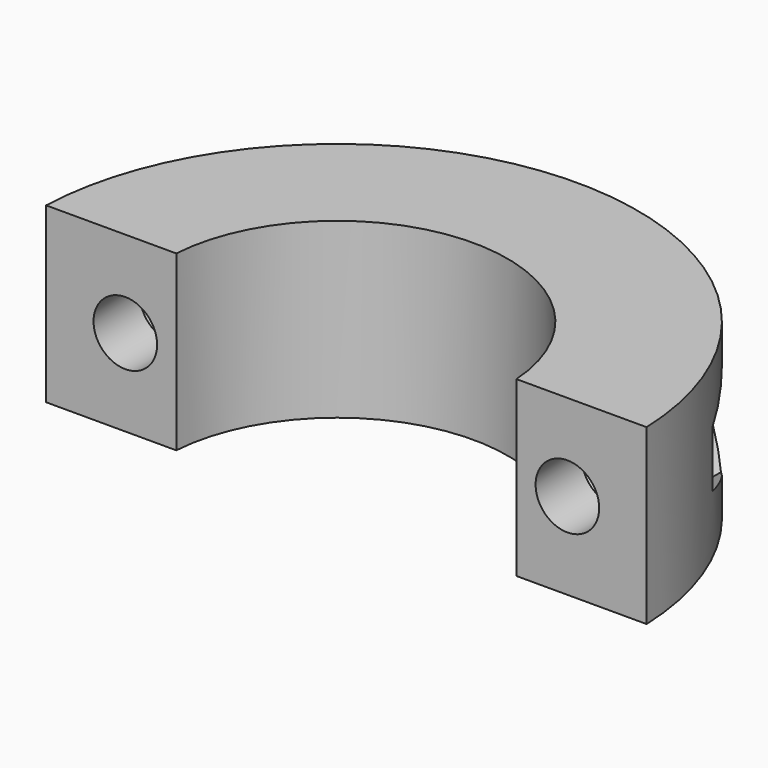
from build123d import *

# Parameters (mm, degrees)
PAD_DEPTH       = 15
SKETCH001_R     = 2.75
POCKET_DEPTH    = 25.001
SKETCH002_R     = 4.75
POCKET001_DEPTH = 20.001


with BuildPart() as part:
    # Sketch → Pad (new body)
    with BuildSketch(Plane.XY):
        with BuildLine():
            ThreePointArc((14.716063, 0), (0, 13.75), (-14.716063, 0))
            Line((-25.980762, 0), (-14.716063, 0))
            ThreePointArc((25.980762, 0), (0, 25), (-25.980762, 0))
            Line((14.716063, 0), (25.980762, 0))
        make_face()
    extrude(amount=PAD_DEPTH)

    # Sketch001 (on Face2 of Pad) → Pocket (cut, through all)
    with BuildSketch(Plane.XZ):
        with Locations((-19.125, 7.5)):
            Circle(SKETCH001_R)
        with Locations((19.125, 7.5)):
            Circle(SKETCH001_R)
    extrude(amount=-POCKET_DEPTH, mode=Mode.SUBTRACT)

    # Sketch002 (on DatumPlane) → Pocket001 (cut, through all)
    with BuildSketch(Plane.XZ.offset(-5)):
        with Locations((-19.125, 7.5)):
            Circle(SKETCH002_R)
        Polygon((19.125, 2.592523), (23.375, 5.046261), (23.375, 9.953739), (19.125, 12.407477), (14.875, 9.953739), (14.875, 5.046261), align=None)
    extrude(amount=-POCKET001_DEPTH, mode=Mode.SUBTRACT)


solid = part.part
